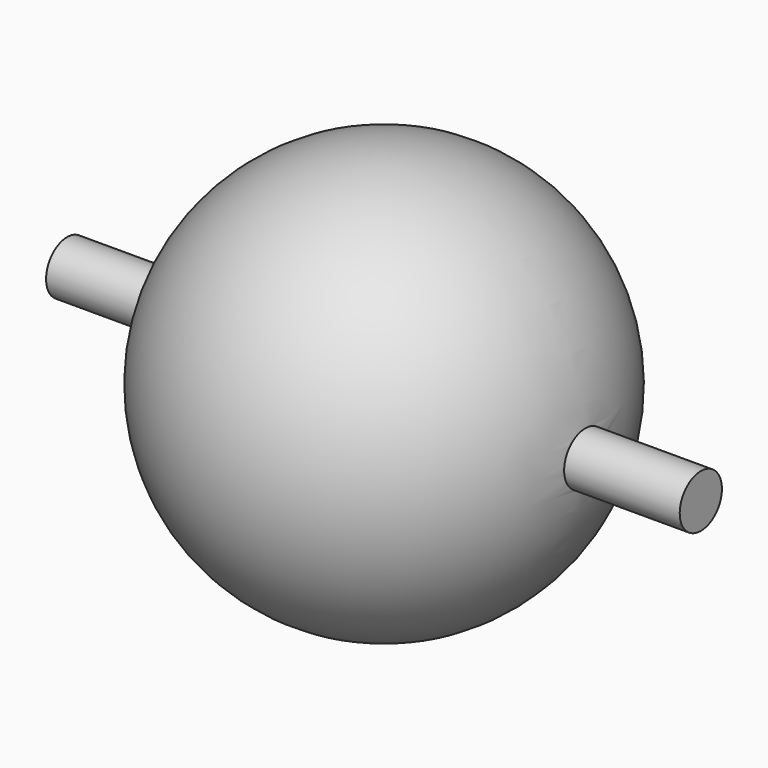
from build123d import *

# Parameters (mm, degrees)
CYLINDER001_R           = 0.65
CYLINDER001_DEPTH       = 15.61
CYLINDER001_PITCH_ANGLE = 90
CYLINDER_R              = 0.65
CYLINDER_DEPTH          = 10
CYLINDER_PITCH_ANGLE    = 90


with BuildPart() as cylinder001:
    # Cylinder001 → Cylinder001 (new body)
    with BuildSketch(Plane.XY):
        Circle(CYLINDER001_R)
    extrude(amount=CYLINDER001_DEPTH)


with BuildPart() as cylinder001_1:
    # Cylinder001 pitch: moved
    add(cylinder001.part.rotate(Axis((0, 0, 0), (0, 1, 0)), CYLINDER001_PITCH_ANGLE))


with BuildPart() as cylinder001_2:
    # Cylinder001 placement: moved
    add(cylinder001_1.part.moved(Location((-7.805, 0, 0))))


with BuildPart() as cylinder:
    # Cylinder → Cylinder (new body)
    with BuildSketch(Plane.XY):
        Circle(CYLINDER_R)
    extrude(amount=CYLINDER_DEPTH)


with BuildPart() as cylinder_1:
    # Cylinder pitch: moved
    add(cylinder.part.rotate(Axis((0, 0, 0), (0, 1, 0)), CYLINDER_PITCH_ANGLE))


with BuildPart() as cylinder_2:
    # Cylinder placement: moved
    add(cylinder_1.part.moved(Location((-5, 0, 0))))


with BuildPart() as cut:
    # Sphere → Sphere (revolve)
    with BuildSketch(Plane.XZ):
        with BuildLine():
            ThreePointArc((0, -5), (5, 0), (0, 5))
            Line((0, 5), (0, -5))
        make_face()
    revolve(axis=Axis((0, 0, 0), (0, 0, 1)))

    # Cut: cut Cylinder
    add(cylinder_2.part, mode=Mode.SUBTRACT)


solid = Compound([cylinder001_2.part, cut.part])
